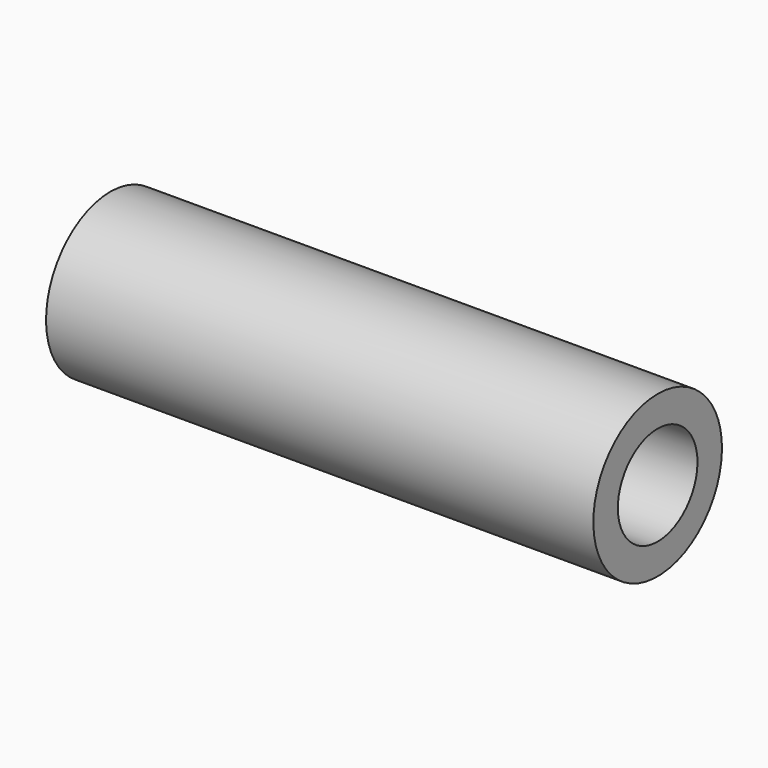
from build123d import *


with BuildPart() as f1:
    # F0 (on Front) → F1 (revolve)
    with BuildSketch(Plane.XZ):
        with BuildLine():
            Line((70, 13), (74.762488, 15.857493))
            ThreePointArc((74.762488, 15.857493), (75.01005, 15.963715), (75.276984, 16))
            Line((75.276984, 16), (98, 16))
            Line((98, 16), (98, 14))
            ThreePointArc((98, 14), (98.292893, 13.292893), (99, 13))
            Line((99, 13), (138, 13))
            Line((138, 13), (138, 21))
            Line((138, 21), (-5, 21))
            Line((-5, 21), (-5, 0))
            Line((-5, 0), (0, 0))
            Line((0, 0), (0, 13))
            Line((0, 13), (70, 13))
        make_face()
    revolve(axis=Axis((35, 0, 0), (1, 0, 0)))


solid = f1.part
